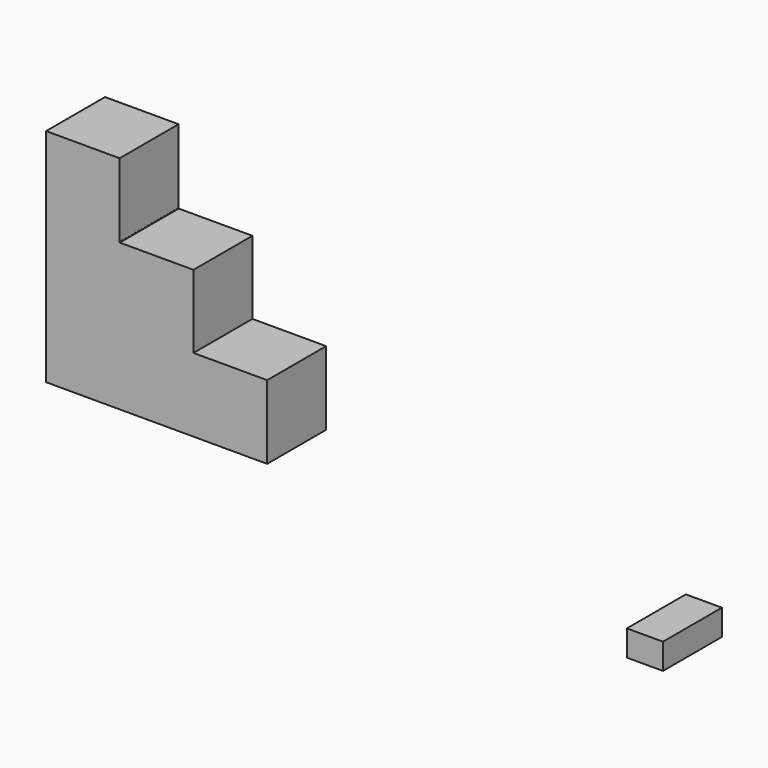
from build123d import *

# Parameters (mm, degrees)
F0_W     = 25.4
F0_H     = 25.4
F0_H_2   = 25.21857
F0_W_2   = 25.354643
F0_W_3   = 6.216788
F0_H_3   = 8.881118
F0_W_4   = 6.216789
F1_DEPTH = 25.4


with BuildPart() as f1:
    # F0 (on Front) → F1 (new body)
    with BuildSketch(Plane.XZ):
        with Locations((12.7, 12.7)):
            Rectangle(F0_W, F0_H)
        with Locations((-12.7, 12.7)):
            Rectangle(F0_W, F0_H)
        with Locations((-12.7, 38.009285)):
            Rectangle(F0_W, F0_H_2)
        with Locations((-38.1, 12.7)):
            Rectangle(F0_W, F0_H)
        Polygon((-50.8, 25.4), (-25.4, 25.4), (-25.4, 50.61857), (-25.4, 50.8), (-25.445357, 50.8), (-50.8, 50.8), align=None)
        with Locations((-38.122678, 63.5)):
            Rectangle(F0_W_2, F0_H)
        with Locations((152.488798, -14.032167)):
            Rectangle(F0_W_3, F0_H_3)
        with Locations((158.705586, -14.032167)):
            Rectangle(F0_W_4, F0_H_3)
    extrude(amount=F1_DEPTH)


solid = f1.part
